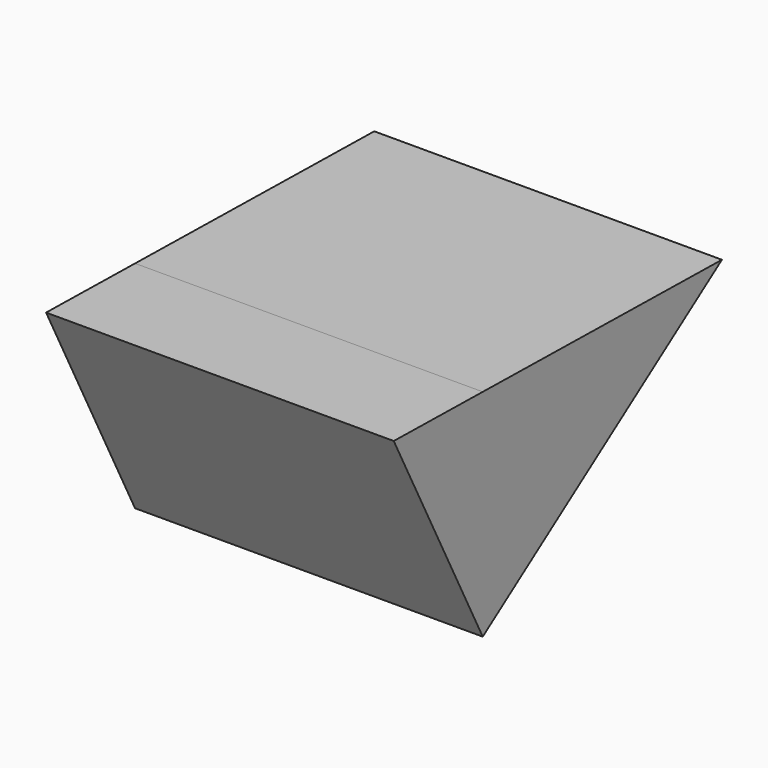
from build123d import *

# Parameters (mm, degrees)
F1_DEPTH = 50


with BuildPart() as f1:
    # F0 (on Right) → F1 (new body)
    with BuildSketch(Plane.YZ):
        Polygon((-35.269232, 34.148731), (-51.266778, 34.428943), (-35.269232, 3.148731), align=None)
        Polygon((7.724173, 33.395662), (-35.269232, 34.148731), (-35.269232, 3.148731), align=None)
    extrude(amount=F1_DEPTH)


solid = f1.part
